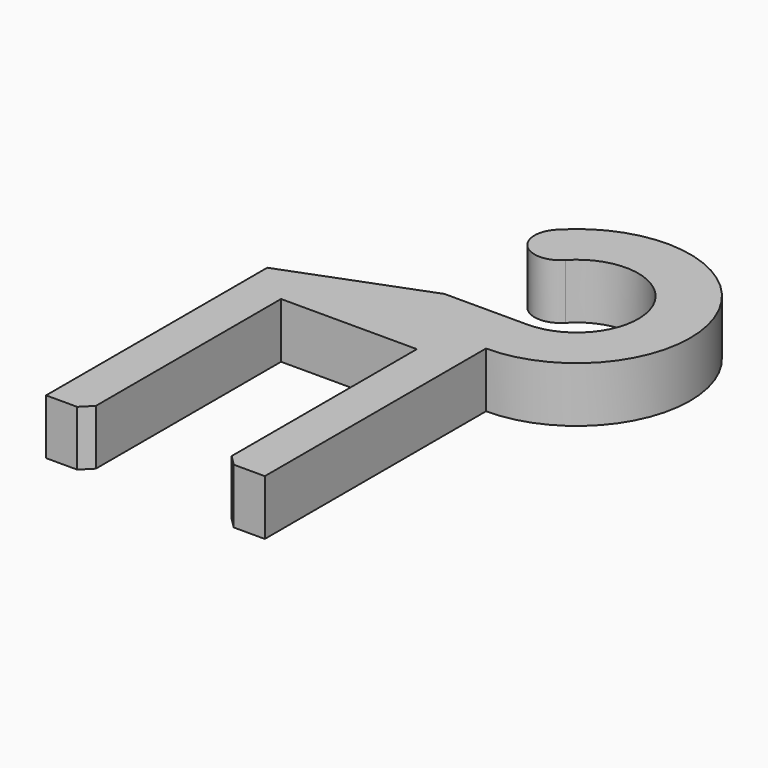
from build123d import *

# Parameters (mm, degrees)
PAD_DEPTH    = 8
CHAMFER_SIZE = 1.5


with BuildPart() as part:
    # Sketch → Pad (new body)
    with BuildSketch(Plane.XY):
        with BuildLine():
            ThreePointArc((31.65, 0), (46.706124, 22.957835), (19.65001, 27.617855))
            ThreePointArc((19.65001, 27.617855), (19.832321, 22.317689), (25.132488, 22.5))
            ThreePointArc((31.65, 7.5), (39.827391, 19.969016), (25.132488, 22.5))
            Line((31.65, 7.5), (19.65001, 7.5))
            Line((19.65001, 7.5), (0, 0))
            Line((0, 0), (0, -40))
            Line((0, -40), (6, -40))
            Line((6, -40), (6, -5))
            Line((6, -5), (25.65, -5))
            Line((25.65, -5), (25.65, -40))
            Line((25.65, -40), (31.65, -40))
            Line((31.65, -40), (31.65, 0))
        make_face()
    extrude(amount=PAD_DEPTH)

    # Chamfer
    chamfer_edges = [part.edges().sort_by_distance(p)[0] for p in [
        (6, -40, 4),
        (25.65, -40, 4),
    ]]
    chamfer(chamfer_edges, length=CHAMFER_SIZE)


solid = part.part
